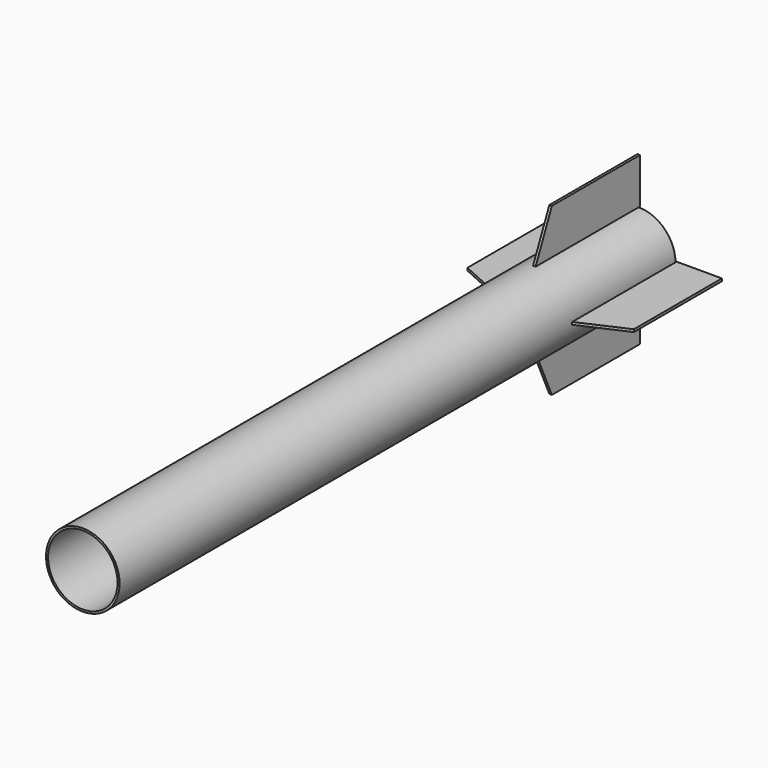
from build123d import *

# Parameters (mm, degrees)
F0_R     = 11.65
F0_R_2   = 11
F1_DEPTH = 220
F3_DEPTH = 0.4
F4_COUNT = 4


with BuildPart() as f1:
    # F0 (on Front) → F1 (new body)
    with BuildSketch(Plane.XZ):
        Circle(F0_R)
        Circle(F0_R_2, mode=Mode.SUBTRACT)
    extrude(amount=F1_DEPTH)


with BuildPart() as f3:
    # F2 (on Right) → F3 (new body, symmetric)
    with BuildSketch(Plane.YZ):
        Polygon((-41.309893, 12.007945), (0, 12.007945), (0, 26.348222), (-34.85677, 26.348222), align=None)
    extrude(amount=F3_DEPTH, both=True)


with BuildPart() as f4_1:
    # F4: instance of F3
    add(f3.part.rotate(Axis((0, 0, 0), (0, 1, 0)), 1 * 360 / F4_COUNT))


with BuildPart() as f4_2:
    # F4: instance of F3
    add(f3.part.rotate(Axis((0, 0, 0), (0, 1, 0)), 2 * 360 / F4_COUNT))


with BuildPart() as f4_3:
    # F4: instance of F3
    add(f3.part.rotate(Axis((0, 0, 0), (0, 1, 0)), 3 * 360 / F4_COUNT))


solid = Compound([f1.part, f3.part, f4_1.part, f4_2.part, f4_3.part])
